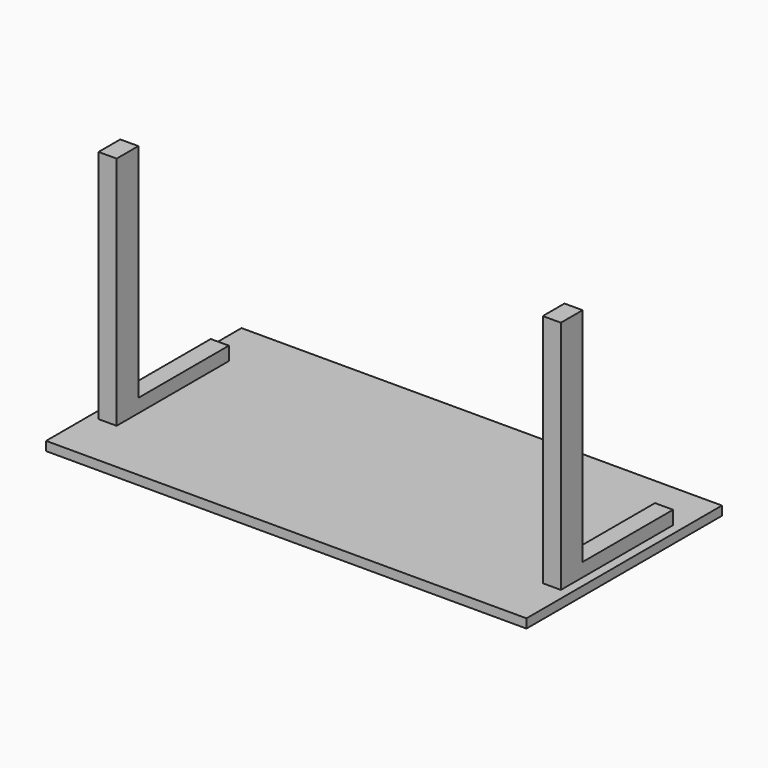
from build123d import *

# Parameters (mm, degrees)
F0_W     = 1348.74
F0_H     = 685.8
F1_DEPTH = 25.4
F3_W     = 50.8
F3_H     = 317.5
F4_DEPTH = 38.1
F5_W     = 50.8
F5_H     = 76.2
F6_DEPTH = 660.4


with BuildPart() as f1:
    # F0 (on Top) → F1 (new body)
    with BuildSketch(Plane.XY):
        Rectangle(F0_W, F0_H)
    extrude(amount=F1_DEPTH)

    # F3 (on face) → F4 (join)
    with BuildSketch(Plane.XY.offset(25.4)):
        with Locations((-623.57, 44.45)):
            Rectangle(F3_W, F3_H)
        with Locations((623.57, 44.45)):
            Rectangle(F3_W, F3_H)
    extrude(amount=F4_DEPTH)

    # F5 (on face) → F6 (join)
    with BuildSketch(Plane.XY.offset(25.4)):
        with Locations((-623.57, -152.4)):
            Rectangle(F5_W, F5_H)
        with Locations((623.57, -152.4)):
            Rectangle(F5_W, F5_H)
    extrude(amount=F6_DEPTH)


solid = f1.part
